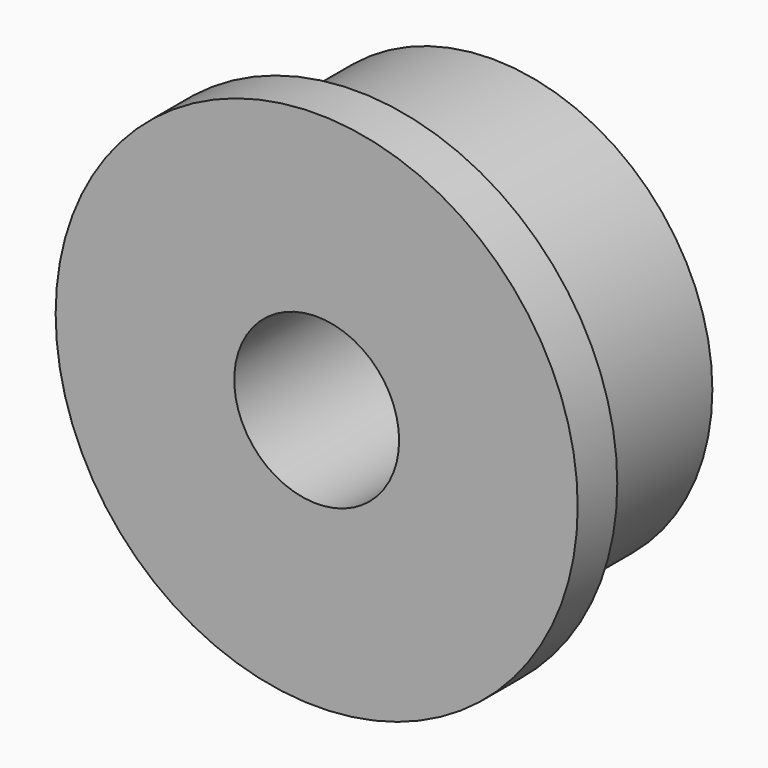
from build123d import *


with BuildPart() as part:
    # Sketch → Revolution (revolve)
    with BuildSketch(Plane.XY):
        Polygon((1.5, 0), (4.75, 0), (4.75, 0.9), (4, 0.9), (4, 4), (1.5, 4), align=None)
    revolve(axis=Axis((0, 0, 0), (0, 1, 0)))


solid = part.part
